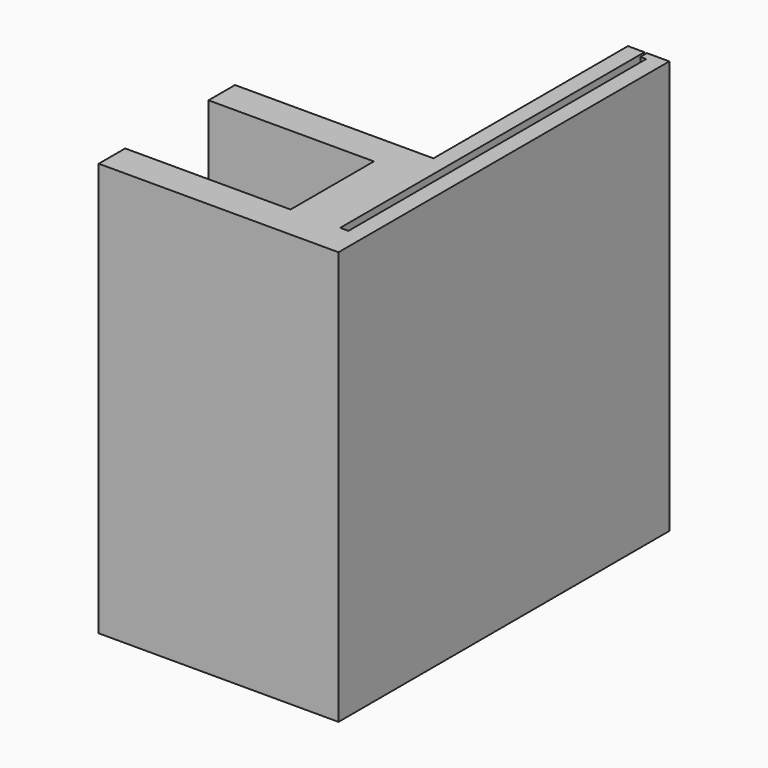
from build123d import *

# Parameters (mm, degrees)
F0_W     = 2
F0_H     = 6.3
F0_W_2   = 0.5
F0_H_2   = 2
F0_W_3   = 0.35
F0_H_3   = 0.5
F1_DEPTH = 25


with BuildPart() as f1:
    # F0 (on Top) → F1 (new body)
    with BuildSketch(Plane.XY):
        Polygon((2, 5.15), (-10, 5.15), (-10, 3.15), (0, 3.15), (2, 3.15), align=None)
        Polygon((2, 19.85), (2, 5.15), (2, 3.15), (2, -3.15), (2, -5.15), (3, -5.15), (3, -3.15), (3, 19.85), align=None)
        with Locations((1, 0)):
            Rectangle(F0_W, F0_H)
        Polygon((2, -5.15), (2, -3.15), (0, -3.15), (-10, -3.15), (-10, -5.15), align=None)
        with Locations((3.25, -4.15)):
            Rectangle(F0_W_2, F0_H_2)
        Polygon((3.5, 19.35), (3.5, -3.15), (3.5, -5.15), (4.5, -5.15), (4.5, 19.85), (3.5, 19.85), align=None)
        with Locations((3.325, 19.6)):
            Rectangle(F0_W_3, F0_H_3)
    extrude(amount=F1_DEPTH)


solid = f1.part
